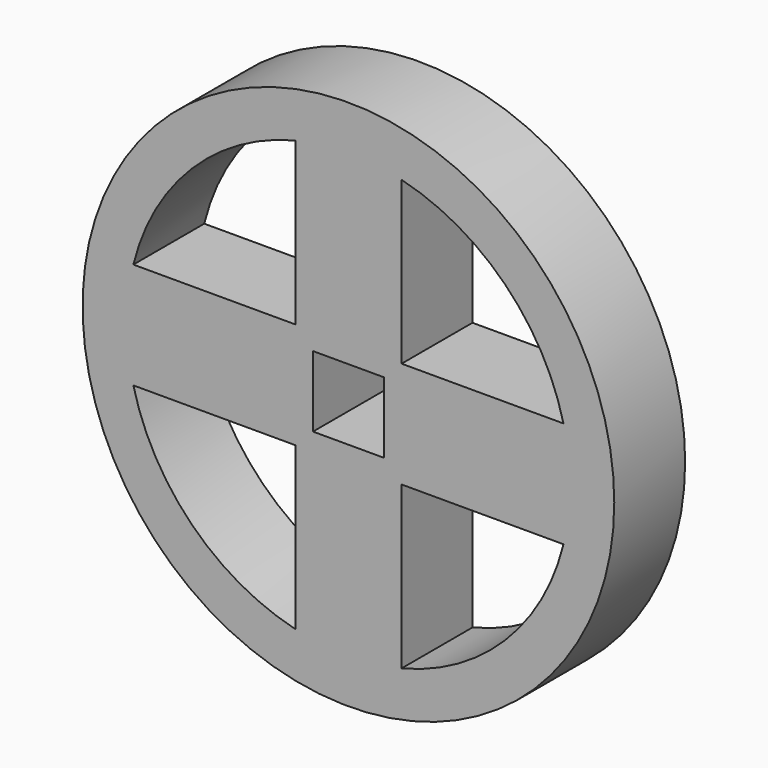
from build123d import *

# Parameters (mm, degrees)
F0_R     = 30
F0_W     = 8
F0_H     = 8
F1_DEPTH = 10


with BuildPart() as f1:
    # F0 (on Front) → F1 (new body)
    with BuildSketch(Plane.XZ):
        Circle(F0_R)
        with BuildLine():
            Line((-6, -6), (-6, -24.269322))
            ThreePointArc((-6, -24.269322), (-17.67767, -17.67767), (-24.269322, -6))
            Line((-24.269322, -6), (-6, -6))
        make_face(mode=Mode.SUBTRACT)
        with BuildLine():
            Line((6, -6), (24.269322, -6))
            ThreePointArc((24.269322, -6), (17.67767, -17.67767), (6, -24.269322))
            Line((6, -24.269322), (6, -6))
        make_face(mode=Mode.SUBTRACT)
        with BuildLine():
            Line((-6, 24.269322), (-6, 6))
            Line((-6, 6), (-24.269322, 6))
            ThreePointArc((-24.269322, 6), (-17.67767, 17.67767), (-6, 24.269322))
        make_face(mode=Mode.SUBTRACT)
        Rectangle(F0_W, F0_H, mode=Mode.SUBTRACT)
        with BuildLine():
            ThreePointArc((6, 24.269322), (17.67767, 17.67767), (24.269322, 6))
            Line((24.269322, 6), (6, 6))
            Line((6, 6), (6, 24.269322))
        make_face(mode=Mode.SUBTRACT)
    extrude(amount=F1_DEPTH)


solid = f1.part
